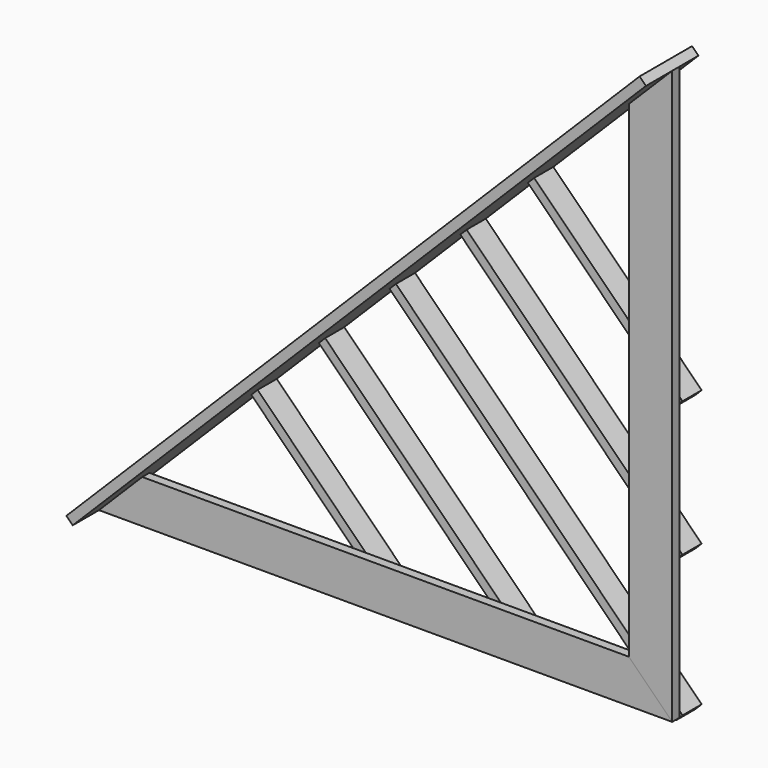
from build123d import *

# Parameters (mm, degrees)
F1_DEPTH  = 19.05
F3_DEPTH  = 19.05
F5_W      = 139.7
F5_H      = 1724.2091752453
F6_DEPTH  = 19.05
F8_W      = 862.1045876226
F8_H      = 50.8
F9_DEPTH  = 9.525
F11_W     = 649.3795876226
F11_H     = 50.8
F12_DEPTH = 9.525
F14_W     = 446.1795876226
F14_H     = 50.8
F15_DEPTH = 9.525


with BuildPart() as f1:
    # F0 (on Front) → F1 (new body)
    with BuildSketch(Plane.XZ):
        Polygon((-609.6, -46.0375), (609.6, -46.0375), (517.525, 46.0375), (-517.525, 46.0375), align=None)
    extrude(amount=-F1_DEPTH)


with BuildPart() as f3:
    # F2 (on Front) → F3 (new body)
    with BuildSketch(Plane.XZ):
        Polygon((517.525, 46.0375), (609.6, -46.0375), (609.6, 1173.1625), (517.525, 1081.0875), align=None)
    extrude(amount=-F3_DEPTH)


with BuildPart() as f6:
    # F5 (on 3pt) → F6 (new body)
    with BuildSketch(Plane(origin=(-281.78125, 0, 281.78125), x_dir=(0, 1, 0), z_dir=(0.7071067812, 0, -0.7071067812))):
        with Locations((0, 398.4988653724)):
            Rectangle(F5_W, F5_H)
    extrude(amount=-F6_DEPTH)


with BuildPart() as f9:
    # F8 (on offset) → F9 (new body, symmetric)
    with BuildSketch(Plane(origin=(281.78125, 0, 281.78125), x_dir=(0.7071067812, 0, -0.7071067812), z_dir=(0.7071067812, 0, 0.7071067812))):
        with Locations((32.5534284389, 44.45)):
            Rectangle(F8_W, F8_H)
    extrude(amount=F9_DEPTH, both=True)


with BuildPart() as f12:
    # F11 (on offset) → F12 (new body, symmetric)
    with BuildSketch(Plane(origin=(131.3619599721, 0, 131.3619599721), x_dir=(0.7071067812, 0, -0.7071067812), z_dir=(-0.7071067812, 0, -0.7071067812))):
        with Locations((-73.8090715611, -44.45)):
            Rectangle(F11_W, F11_H)
    extrude(amount=F12_DEPTH, both=True)


with BuildPart() as f15:
    # F14 (on offset) → F15 (new body, symmetric)
    with BuildSketch(Plane(origin=(-12.322137965, 0, -12.322137965), x_dir=(0.7071067812, 0, -0.7071067812), z_dir=(-0.7071067812, 0, -0.7071067812))):
        with Locations((-175.4090715611, -44.45)):
            Rectangle(F14_W, F14_H)
    extrude(amount=F15_DEPTH, both=True)


with BuildPart() as f16_1:
    # F16: instance of F15
    add(f15.part.mirror(Plane(origin=(563.5625, 9.525, 0), x_dir=(0, 1, 0), z_dir=(0.7071067812, 0, 0.7071067812))))


with BuildPart() as f16_2:
    # F16: instance of F12
    add(f12.part.mirror(Plane(origin=(563.5625, 9.525, 0), x_dir=(0, 1, 0), z_dir=(0.7071067812, 0, 0.7071067812))))


solid = Compound([f1.part, f3.part, f6.part, f9.part, f12.part, f15.part, f16_1.part, f16_2.part])
